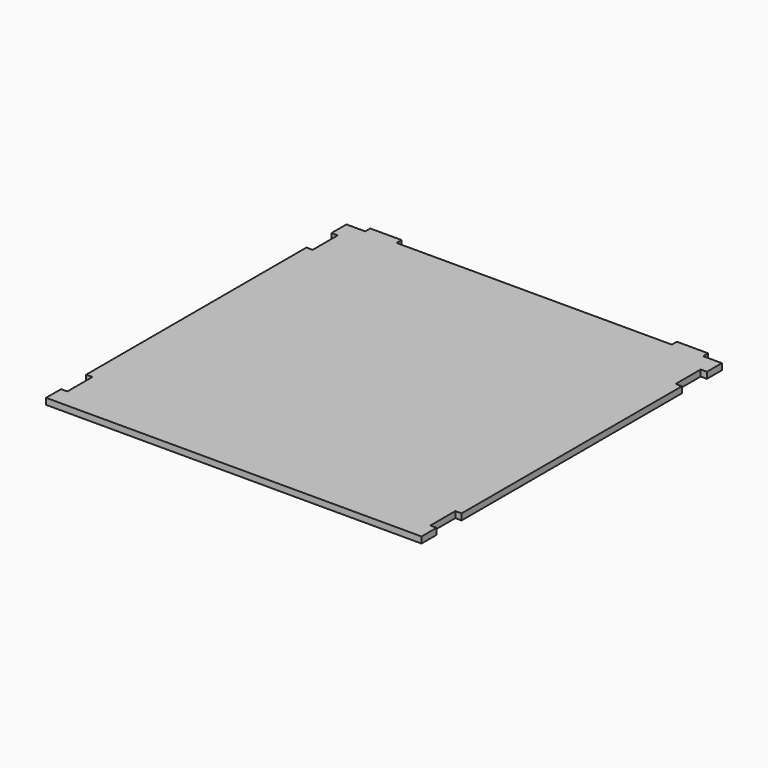
from build123d import *

# Parameters (mm, degrees)
F1_DEPTH = 2.54


with BuildPart() as f1:
    # F0 (on Top) → F1 (new body)
    with BuildSketch(Plane.XY):
        Polygon((-76.2, -76.2), (76.2, -76.2), (76.2, -68.58), (73.66, -68.58), (73.66, -55.88), (76.2, -55.88), (76.2, 55.88), (73.66, 55.88), (73.66, 68.58), (76.2, 68.58), (76.2, 76.2), (68.58, 76.2), (68.58, 78.74), (55.88, 78.74), (55.88, 76.2), (-55.88, 76.2), (-55.88, 78.74), (-68.58, 78.74), (-68.58, 76.2), (-76.2, 76.2), (-76.2, 68.58), (-73.66, 68.58), (-73.66, 55.88), (-76.2, 55.88), (-76.2, -55.88), (-73.66, -55.88), (-73.66, -68.58), (-76.2, -68.58), align=None)
    extrude(amount=F1_DEPTH)


solid = f1.part
